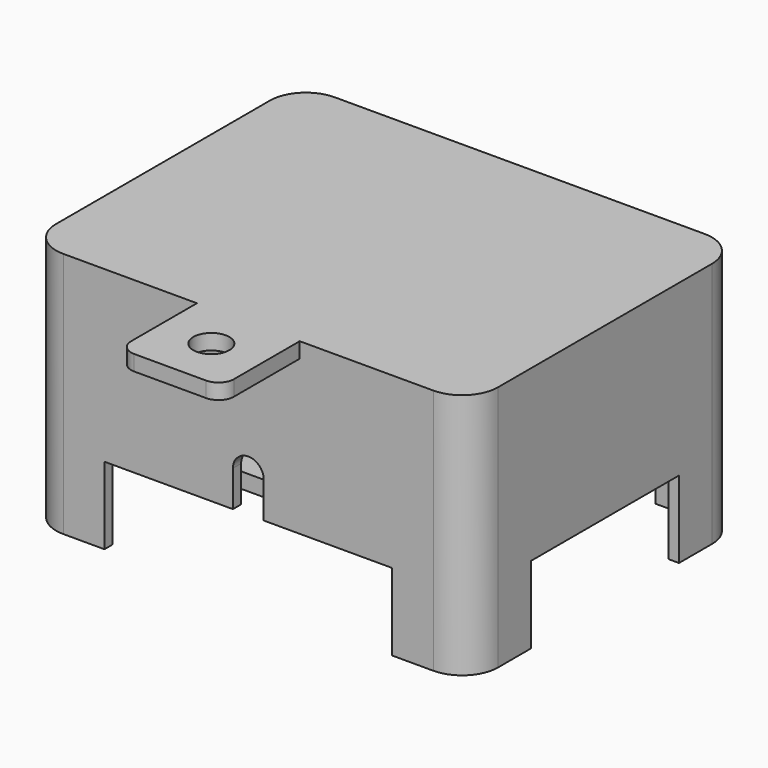
from build123d import *

# Parameters (mm, degrees)
SKETCH_R        = 1.75
PAD_DEPTH       = 3
SKETCH001_R     = 3
PAD001_DEPTH    = 10
SKETCH002_R     = 1
POCKET_DEPTH    = 10
SKETCH009_R     = 1.75
POCKET003_DEPTH = 3
SKETCH013_W     = 6
SKETCH013_H     = 6
POCKET006_DEPTH = 5
PAD003_DEPTH    = 45
PAD004_DEPTH    = 3
SKETCH006_R     = 3.5
PAD005_DEPTH    = 3
POCKET001_DEPTH = 2
SKETCH008_W     = 12
SKETCH008_H     = 20
POCKET002_DEPTH = 2
PAD007_DEPTH    = 25
SKETCH011_R     = 1.5
POCKET004_DEPTH = 10
SKETCH012_W     = 56
SKETCH012_H     = 17
SKETCH012_W_2   = 17
SKETCH012_H_2   = 36
POCKET005_DEPTH = 20


with BuildPart() as base:
    # Sketch → Pad (new body)
    with BuildSketch(Plane.XY):
        with BuildLine():
            Line((-40, 26), (-40, -26))
            ThreePointArc((-40, -26), (-38.828427, -28.828427), (-36, -30))
            Line((-36, -30), (36, -30))
            ThreePointArc((36, -30), (38.828427, -28.828427), (40, -26))
            Line((40, -26), (40, 26))
            ThreePointArc((40, 26), (38.828427, 28.828427), (36, 30))
            Line((36, 30), (-36, 30))
            ThreePointArc((-36, 30), (-38.828427, 28.828427), (-40, 26))
        make_face()
        with Locations((0, 15)):
            Circle(SKETCH_R, mode=Mode.SUBTRACT)
        with Locations((0, -15)):
            Circle(SKETCH_R, mode=Mode.SUBTRACT)
    extrude(amount=-PAD_DEPTH)

    # Sketch001 → Pad001 (join)
    with BuildSketch(Plane.XY):
        with Locations((28, 18)):
            Circle(SKETCH001_R)
        with Locations((28, -18)):
            Circle(SKETCH001_R)
        with Locations((-28, -18)):
            Circle(SKETCH001_R)
        with Locations((-28, 18)):
            Circle(SKETCH001_R)
    extrude(amount=PAD001_DEPTH)

    # Sketch002 → Pocket (cut)
    with BuildSketch(Plane.XY):
        with Locations((28, 18)):
            Circle(SKETCH002_R)
        with Locations((28, -18)):
            Circle(SKETCH002_R)
        with Locations((-28, -18)):
            Circle(SKETCH002_R)
        with Locations((-28, 18)):
            Circle(SKETCH002_R)
    extrude(amount=POCKET_DEPTH, mode=Mode.SUBTRACT)

    # Sketch009 → Pocket003 (cut)
    with BuildSketch(Plane.XY):
        with Locations((-36, 26)):
            Circle(SKETCH009_R)
        with Locations((36, 26)):
            Circle(SKETCH009_R)
        with Locations((36, -26)):
            Circle(SKETCH009_R)
        with Locations((-36, -26)):
            Circle(SKETCH009_R)
    extrude(amount=-POCKET003_DEPTH, mode=Mode.SUBTRACT)

    # Sketch013 → Pocket006 (cut)
    with BuildSketch(Plane.XY):
        with Locations((0, 27)):
            Rectangle(SKETCH013_W, SKETCH013_H)
    extrude(amount=-POCKET006_DEPTH, mode=Mode.SUBTRACT)


with BuildPart() as top:
    # Sketch004 → Pad003 (new body)
    with BuildSketch(Plane.XY.offset(30)):
        with BuildLine():
            Line((-43, 26), (-43, -26))
            ThreePointArc((-43, -26), (-40.949747, -30.949747), (-36, -33))
            Line((-36, -33), (36, -33))
            ThreePointArc((36, -33), (40.949747, -30.949747), (43, -26))
            Line((43, -26), (43, 26))
            ThreePointArc((43, 26), (40.949747, 30.949747), (36, 33))
            Line((36, 33), (-36, 33))
            ThreePointArc((-36, 33), (-40.949747, 30.949747), (-43, 26))
        make_face()
        with BuildLine():
            Line((-41, 26), (-41, -26))
            ThreePointArc((-41, -26), (-39.535534, -29.535534), (-36, -31))
            Line((-36, -31), (36, -31))
            ThreePointArc((36, -31), (39.535534, -29.535534), (41, -26))
            Line((41, -26), (41, 26))
            ThreePointArc((41, 26), (39.535534, 29.535534), (36, 31))
            Line((36, 31), (-36, 31))
            ThreePointArc((-36, 31), (-39.535534, 29.535534), (-41, 26))
        make_face(mode=Mode.SUBTRACT)
    extrude(amount=-PAD003_DEPTH)

    # Sketch005 → Pad004 (join)
    with BuildSketch(Plane.XY.offset(30)):
        with BuildLine():
            Line((-43, 26), (-43, -26))
            ThreePointArc((-43, -26), (-40.949747, -30.949747), (-36, -33))
            Line((-36, -33), (36, -33))
            ThreePointArc((36, -33), (40.949747, -30.949747), (43, -26))
            Line((43, -26), (43, 26))
            ThreePointArc((43, 26), (40.949747, 30.949747), (36, 33))
            Line((36, 33), (-36, 33))
            ThreePointArc((-36, 33), (-40.949747, 30.949747), (-43, 26))
        make_face()
    extrude(amount=PAD004_DEPTH)

    # Sketch006 → Pad005 (join)
    with BuildSketch(Plane.XY.offset(30)):
        with BuildLine():
            Line((-10, -29), (-10, -49))
            ThreePointArc((-10, -49), (-9.12132, -51.12132), (-7, -52))
            Line((-7, -52), (7, -52))
            ThreePointArc((7, -52), (9.12132, -51.12132), (10, -49))
            Line((10, -49), (10, -29))
            ThreePointArc((10, -29), (9.12132, -26.87868), (7, -26))
            Line((7, -26), (-7, -26))
            ThreePointArc((-7, -26), (-9.12132, -26.87868), (-10, -29))
        make_face()
        with Locations((0, -42)):
            Circle(SKETCH006_R, mode=Mode.SUBTRACT)
    extrude(amount=PAD005_DEPTH)

    # Sketch007 → Pocket001 (cut)
    with BuildSketch(Plane.XZ.offset(31)):
        with BuildLine():
            Line((-3, 7), (-3, 0))
            Line((-3, 0), (3, 0))
            Line((3, 0), (3, 7))
            ThreePointArc((3, 7), (0, 10), (-3, 7))
        make_face()
    extrude(amount=POCKET001_DEPTH, mode=Mode.SUBTRACT)

    # Sketch008 → Pocket002 (cut)
    with BuildSketch(Plane.YZ.offset(-41)):
        with Locations((12, 10)):
            Rectangle(SKETCH008_W, SKETCH008_H)
    extrude(amount=-POCKET002_DEPTH, mode=Mode.SUBTRACT)

    # Sketch010 → Pad007 (join)
    with BuildSketch(Plane.XY.offset(30)):
        with BuildLine():
            ThreePointArc((41, 26), (39.535534, 29.535534), (36, 31))
            Line((36, 31), (32, 31))
            Line((32, 26), (32, 31))
            ThreePointArc((32, 26), (33.171573, 23.171573), (36, 22))
            Line((36, 22), (41, 22))
            Line((41, 26), (41, 22))
        make_face()
        with BuildLine():
            ThreePointArc((36, -31), (39.535534, -29.535534), (41, -26))
            Line((41, -22), (41, -26))
            Line((36, -22), (41, -22))
            ThreePointArc((36, -22), (33.171573, -23.171573), (32, -26))
            Line((32, -26), (32, -31))
            Line((32, -31), (36, -31))
        make_face()
        with BuildLine():
            ThreePointArc((-32, -26), (-33.171573, -23.171573), (-36, -22))
            Line((-41, -22), (-36, -22))
            Line((-41, -26), (-41, -22))
            ThreePointArc((-41, -26), (-39.535534, -29.535534), (-36, -31))
            Line((-36, -31), (-32, -31))
            Line((-32, -26), (-32, -31))
        make_face()
        with BuildLine():
            ThreePointArc((-36, 31), (-39.535534, 29.535534), (-41, 26))
            Line((-41, 26), (-41, 22))
            Line((-36, 22), (-41, 22))
            ThreePointArc((-36, 22), (-33.171573, 23.171573), (-32, 26))
            Line((-32, 31), (-32, 26))
            Line((-36, 31), (-32, 31))
        make_face()
    extrude(amount=-PAD007_DEPTH)

    # Sketch011 → Pocket004 (cut)
    with BuildSketch(Plane.XY.offset(5)):
        with Locations((-36, 26)):
            Circle(SKETCH011_R)
        with Locations((36, 26)):
            Circle(SKETCH011_R)
        with Locations((36, -26)):
            Circle(SKETCH011_R)
        with Locations((-36, -26)):
            Circle(SKETCH011_R)
    extrude(amount=POCKET004_DEPTH, mode=Mode.SUBTRACT)

    # Sketch012 → Pocket005 (cut)
    with BuildSketch(Plane.XY):
        with Locations((0, 26.5)):
            Rectangle(SKETCH012_W, SKETCH012_H)
        with Locations((-36.5, 0)):
            Rectangle(SKETCH012_W_2, SKETCH012_H_2)
        with Locations((0, -26.5)):
            Rectangle(SKETCH012_W, SKETCH012_H)
        with Locations((36.5, 0)):
            Rectangle(SKETCH012_W_2, SKETCH012_H_2)
    extrude(amount=-POCKET005_DEPTH, mode=Mode.SUBTRACT)


with BuildPart() as top_1:
    # Body004 placement: moved
    add(top.part.moved(Location((0, 0, -5))))


solid = Compound([base.part, top_1.part])
